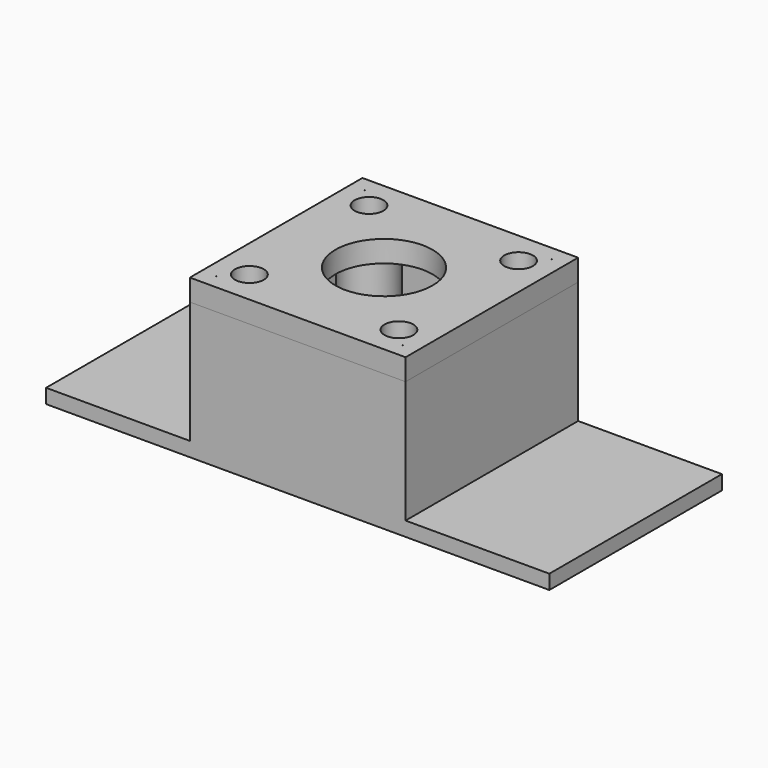
from build123d import *

# Parameters (mm, degrees)
F0_W     = 70
F0_H     = 30
F1_DEPTH = 2
F2_W     = 30
F2_H     = 30
F2_R     = 1.6
F3_DEPTH = 17
F4_W     = 30
F4_H     = 30
F4_R     = 2
F4_R_2   = 6.75
F5_DEPTH = 3
F6_R     = 1.5
F7_DEPTH = 2


with BuildPart() as f1:
    # F0 (on Top) → F1 (new body)
    with BuildSketch(Plane.XY):
        Rectangle(F0_W, F0_H)
    extrude(amount=-F1_DEPTH)

    # F2 (on face) → F3 (join)
    with BuildSketch(Plane.XY):
        Rectangle(F2_W, F2_H)
        with BuildLine():
            Line((-12.88998, -13), (-13, -13))
            Line((-13, -13), (-13, -12.88998))
            ThreePointArc((-13, -12.88998), (-12.945584, -12.945584), (-12.88998, -13))
        make_face(mode=Mode.SUBTRACT)
        with Locations((-10.4, -10.4)):
            Circle(F2_R, mode=Mode.SUBTRACT)
        with BuildLine():
            Line((13, -12.88998), (13, -13))
            Line((13, -13), (12.88998, -13))
            ThreePointArc((12.88998, -13), (12.945584, -12.945584), (13, -12.88998))
        make_face(mode=Mode.SUBTRACT)
        with Locations((10.4, -10.4)):
            Circle(F2_R, mode=Mode.SUBTRACT)
        with Locations((-10.4, 10.4)):
            Circle(F2_R, mode=Mode.SUBTRACT)
        with BuildLine():
            Line((-13, 13), (-12.88998, 13))
            ThreePointArc((-12.88998, 13), (-12.945584, 12.945584), (-13, 12.88998))
            Line((-13, 12.88998), (-13, 13))
        make_face(mode=Mode.SUBTRACT)
        with BuildLine():
            Line((-13, -7.91002), (-13, 7.91002))
            ThreePointArc((-13, 7.91002), (-7.854416, 7.854416), (-7.91002, 13))
            Line((-7.91002, 13), (7.91002, 13))
            ThreePointArc((7.91002, 13), (7.854416, 7.854416), (13, 7.91002))
            Line((13, 7.91002), (13, -7.91002))
            ThreePointArc((13, -7.91002), (7.854416, -7.854416), (7.91002, -13))
            Line((7.91002, -13), (-7.91002, -13))
            ThreePointArc((-7.91002, -13), (-7.854416, -7.854416), (-13, -7.91002))
        make_face(mode=Mode.SUBTRACT)
        with Locations((10.4, 10.4)):
            Circle(F2_R, mode=Mode.SUBTRACT)
        with BuildLine():
            Line((12.88998, 13), (13, 13))
            Line((13, 13), (13, 12.88998))
            ThreePointArc((13, 12.88998), (12.945584, 12.945584), (12.88998, 13))
        make_face(mode=Mode.SUBTRACT)
    extrude(amount=F3_DEPTH)

    # F6 (on face) → F7 (cut, through all)
    with BuildSketch(Plane(origin=(0, 15, 0), x_dir=(-1, 0, 0), z_dir=(0, 1, 0))):
        with Locations((0, 1.5)):
            Circle(F6_R)
    extrude(amount=-F7_DEPTH, mode=Mode.SUBTRACT)


with BuildPart() as f5:
    # F4 (on face) → F5 (new body)
    with BuildSketch(Plane.XY.offset(17)):
        Rectangle(F4_W, F4_H)
        with BuildLine():
            ThreePointArc((-13, -12.88998), (-12.945584, -12.945584), (-12.88998, -13))
            Line((-12.88998, -13), (-13, -13))
            Line((-13, -13), (-13, -12.88998))
        make_face(mode=Mode.SUBTRACT)
        with Locations((-10.4, -10.4)):
            Circle(F4_R, mode=Mode.SUBTRACT)
        with BuildLine():
            ThreePointArc((12.88998, -13), (12.945584, -12.945584), (13, -12.88998))
            Line((13, -12.88998), (13, -13))
            Line((13, -13), (12.88998, -13))
        make_face(mode=Mode.SUBTRACT)
        with Locations((10.4, -10.4)):
            Circle(F4_R, mode=Mode.SUBTRACT)
        with Locations((-10.4, 10.4)):
            Circle(F4_R, mode=Mode.SUBTRACT)
        with BuildLine():
            ThreePointArc((-12.88998, 13), (-12.945584, 12.945584), (-13, 12.88998))
            Line((-13, 12.88998), (-13, 13))
            Line((-13, 13), (-12.88998, 13))
        make_face(mode=Mode.SUBTRACT)
        with BuildLine():
            ThreePointArc((-7.91002, -13), (-7.854416, -7.854416), (-13, -7.91002))
            Line((-13, -7.91002), (-13, 7.91002))
            ThreePointArc((-13, 7.91002), (-7.854416, 7.854416), (-7.91002, 13))
            Line((-7.91002, 13), (7.91002, 13))
            ThreePointArc((7.91002, 13), (7.854416, 7.854416), (13, 7.91002))
            Line((13, 7.91002), (13, -7.91002))
            ThreePointArc((13, -7.91002), (7.854416, -7.854416), (7.91002, -13))
            Line((7.91002, -13), (-7.91002, -13))
        make_face(mode=Mode.SUBTRACT)
        with Locations((10.4, 10.4)):
            Circle(F4_R, mode=Mode.SUBTRACT)
        with BuildLine():
            ThreePointArc((13, 12.88998), (12.945584, 12.945584), (12.88998, 13))
            Line((12.88998, 13), (13, 13))
            Line((13, 13), (13, 12.88998))
        make_face(mode=Mode.SUBTRACT)
        with BuildLine():
            Line((-13, 7.91002), (-13, -7.91002))
            ThreePointArc((-13, -7.91002), (-7.854416, -7.854416), (-7.91002, -13))
            Line((-7.91002, -13), (7.91002, -13))
            ThreePointArc((7.91002, -13), (7.854416, -7.854416), (13, -7.91002))
            Line((13, -7.91002), (13, 7.91002))
            ThreePointArc((13, 7.91002), (7.854416, 7.854416), (7.91002, 13))
            Line((7.91002, 13), (-7.91002, 13))
            ThreePointArc((-7.91002, 13), (-7.854416, 7.854416), (-13, 7.91002))
        make_face()
        Circle(F4_R_2, mode=Mode.SUBTRACT)
    extrude(amount=F5_DEPTH)


solid = Compound([f1.part, f5.part])
